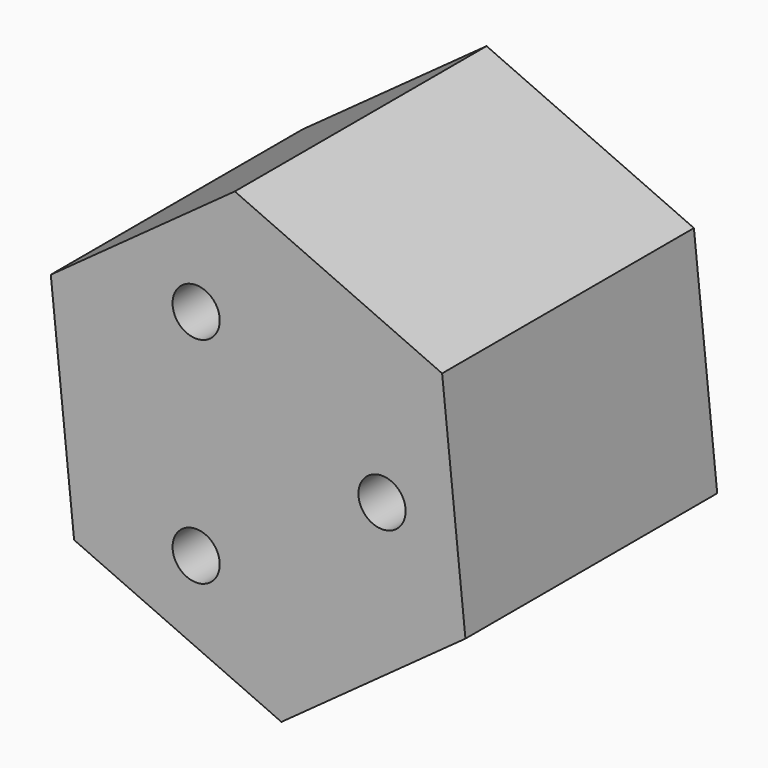
from build123d import *

# Parameters (mm, degrees)
F1_DEPTH = 20
F3_D     = 3


with BuildPart() as f1:
    # F0 (on Front) → F1 (new body)
    with BuildSketch(Plane.XZ):
        Polygon((1.48048, -14.357629), (13.174312, -5.896681), (11.693831, 8.460948), (-1.48048, 14.357629), (-13.174312, 5.896681), (-11.693831, -8.460948), align=None)
    extrude(amount=F1_DEPTH)

    # F3 (through all)
    with Locations(Plane(origin=(0, 0, 0), x_dir=(-1, 0, 0), z_dir=(0, 1, 0))):
        with Locations((3.93769, -6.820278), (3.93769, 6.820278), (-7.875379, 0)):
            Hole(F3_D / 2)


solid = f1.part
